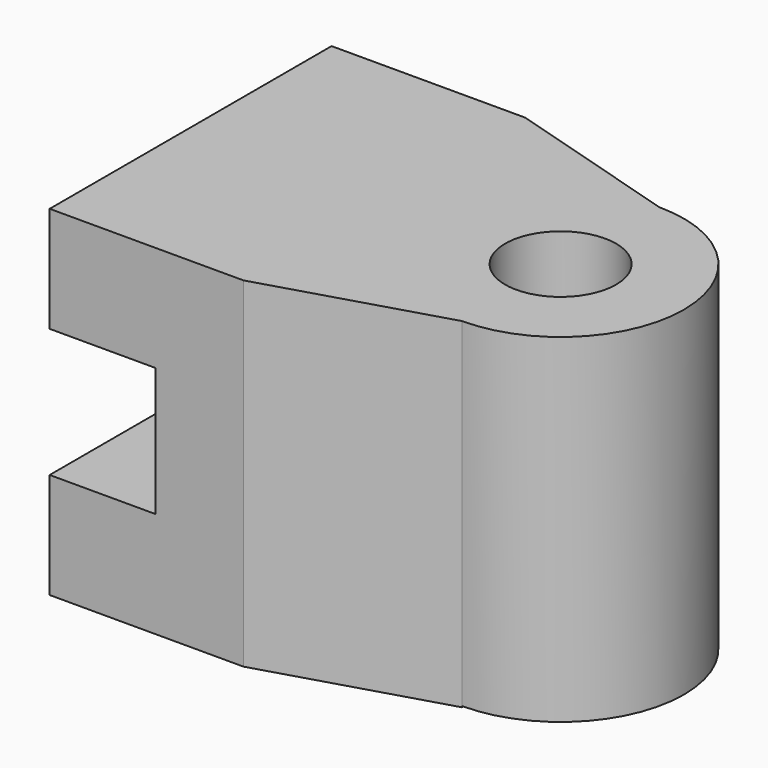
from build123d import *

# Parameters (mm, degrees)
F1_DEPTH = 5
F0_W     = 4
F0_H     = 9.65
F2_DEPTH = 5
F3_SIZE2 = 5
F3_SIZE  = 1.5
F4_SIZE2 = 1.5
F4_SIZE  = 5
F0_W_2   = 1.575


with BuildPart() as f1:
    # F0 (on Front) → F1 (new body, symmetric)
    with BuildSketch(Plane.XZ):
        Polygon((-4.6942626456, -1.1915529846), (-4.6942626456, -4.1915529846), (1.8057373544, -4.1915529846), (1.8057373544, 5.4584470154), (-4.6942626456, 5.4584470154), (-4.6942626456, 2.4584470154), (-1.6942626456, 2.4584470154), (-1.6942626456, -1.1915529846), align=None)
    extrude(amount=F1_DEPTH, both=True)

    # F0 (on Front) → F2 (join, symmetric)
    with BuildSketch(Plane.XZ):
        with Locations((3.8057373544, 0.6334470154)):
            Rectangle(F0_W, F0_H)
    extrude(amount=F2_DEPTH, both=True)

    # F3
    f3_edges = [f1.edges().sort_by_distance(p)[0] for p in [
        (5.805737, -5, 0.633447),
    ]]
    f3_side = f1.faces().sort_by_distance((5.805737, 0, 0.633447))[0]
    chamfer(f3_edges, length=F3_SIZE, length2=F3_SIZE2, reference=f3_side)

    # F4
    f4_edges = [f1.edges().sort_by_distance(p)[0] for p in [
        (5.805737, 5, 0.633447),
    ]]
    f4_side = f1.faces().sort_by_distance((1.010094, 5, 0.633447))[0]
    chamfer(f4_edges, length=F4_SIZE, length2=F4_SIZE2, reference=f4_side)

    # F0 (on Front) → F5 (revolve, cut)
    with BuildSketch(Plane.XZ):
        with Locations((6.5932373544, 0.6334470154)):
            Rectangle(F0_W_2, F0_H)
    revolve(axis=Axis((5.8057373544, 0, 0.6334470154), (0, 0, -1)), mode=Mode.SUBTRACT)

    # F0 (on Front) → F6 (revolve)
    with BuildSketch(Plane.XZ):
        Polygon((7.3807373544, 5.4584470154), (7.3807373544, -4.1915529846), (9.3057373544, -4.159483593), (9.3057373544, 5.4584470154), align=None)
    revolve(axis=Axis((5.8057373544, 0, 0.6334470154), (0, 0, -1)))


solid = f1.part
